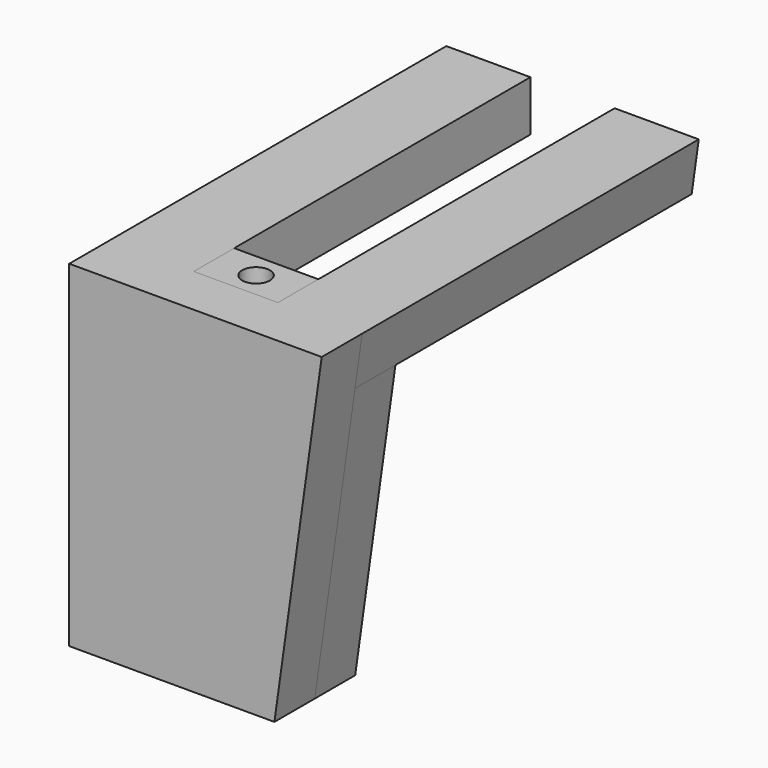
from build123d import *

# Parameters (mm, degrees)
F1_DEPTH = 6
F2_W     = 10
F2_H     = 6
F3_DEPTH = 50
F4_DEPTH = 6
F6_D     = 3.3
F6_DEPTH = 14.1
F6_TIP   = 0.9914200214


with BuildPart() as f1:
    # F0 (on Front) → F1 (new body)
    with BuildSketch(Plane.XZ):
        Polygon((-15, 7.5), (-15, -32.5), (9.3783666119, -32.5), (15, 7.5), align=None)
    extrude(amount=F1_DEPTH)

    # F2 (on face) → F3 (join)
    with BuildSketch(Plane(origin=(0, 0, 0), x_dir=(-1, 0, 0), z_dir=(0, 1, 0))):
        with Locations((10, 4.5)):
            Rectangle(F2_W, F2_H)
        Polygon((-5, 1.5), (-5, 7.5), (-15, 7.5), (-14.1567549918, 1.5), align=None)
    extrude(amount=F3_DEPTH)


with BuildPart() as f4:
    # F4 (new): a face of the model
    f4_faces = [f1.part.faces().sort_by_distance(p)[0] for p in [
        (-1.4829134342, 0, -13.788503144),
    ]]
    extrude(f4_faces, amount=F4_DEPTH)

    # F6
    with Locations(Plane.XY.offset(7.5)):
        with Locations((0, 3)):
            Hole(F6_D / 2, depth=F6_DEPTH)
            with Locations((0, 0, -(F6_DEPTH + F6_TIP / 2))):  # 118° drill point
                Cone(0, F6_D / 2, F6_TIP, mode=Mode.SUBTRACT)


solid = Compound([f1.part, f4.part])
